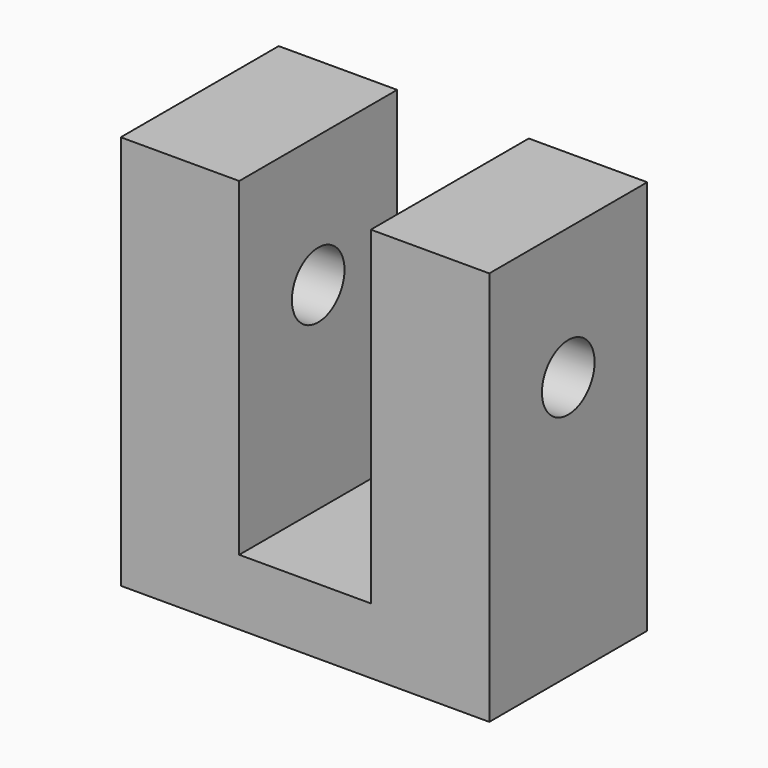
from build123d import *

# Parameters (mm, degrees)
F0_W     = 19.05
F0_H     = 38.1
F1_DEPTH = 35.56
F2_W     = 12.7
F2_H     = 52.9650799816
F3_DEPTH = 25.4
F4_R     = 3.175
F5_DEPTH = 35.561
F7_D     = 6.35
F7_DEPTH = 12.7
F7_TIP   = 1.9077324654


with BuildPart() as f1:
    # F0 (on Right) → F1 (new body)
    with BuildSketch(Plane.YZ):
        Rectangle(F0_W, F0_H)
    extrude(amount=F1_DEPTH)

    # F2 (on face) → F3 (cut)
    with BuildSketch(Plane.XZ.offset(9.525)):
        with Locations((17.78, 13.7825399908)):
            Rectangle(F2_W, F2_H)
    extrude(amount=-F3_DEPTH, mode=Mode.SUBTRACT)

    # F4 (on face) → F5 (cut, through all)
    with BuildSketch(Plane.YZ.offset(35.56)):
        with Locations((0, 6.35)):
            Circle(F4_R)
    extrude(amount=-F5_DEPTH, mode=Mode.SUBTRACT)

    # F7
    with Locations(Plane(origin=(0, 0, -19.05), x_dir=(1, 0, 0), z_dir=(0, 0, -1))):
        with Locations((4.7752, 3.175), (30.7848, 3.175)):
            Hole(F7_D / 2, depth=F7_DEPTH)
            with Locations((0, 0, -(F7_DEPTH + F7_TIP / 2))):  # 118° drill point
                Cone(0, F7_D / 2, F7_TIP, mode=Mode.SUBTRACT)


solid = f1.part
